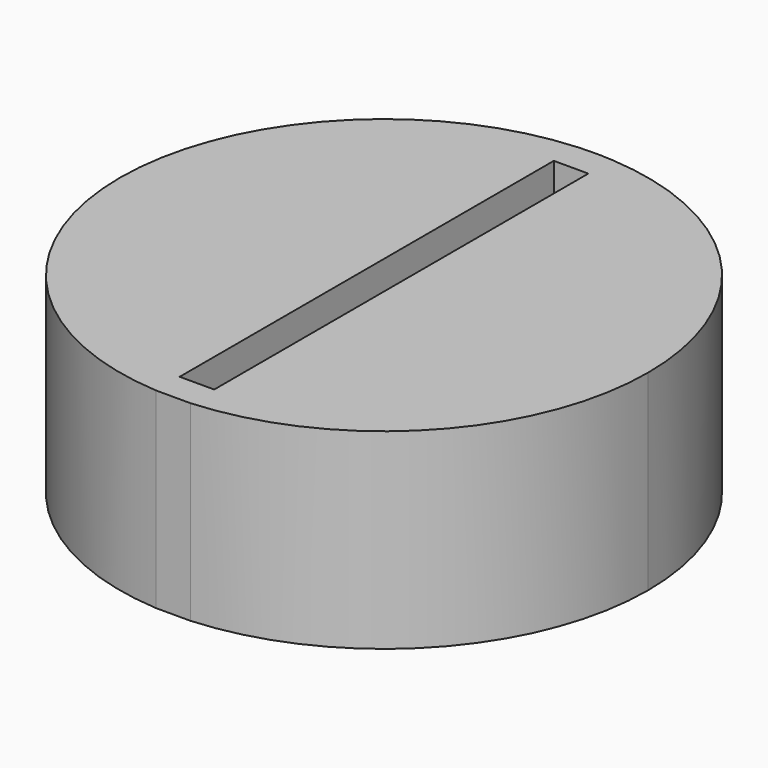
from build123d import *

# Parameters (mm, degrees)
F0_W     = 4.574834
F0_H     = 3.927453
F1_DEPTH = 25.4


with BuildPart() as f1:
    # F0 (on Top) → F1 (new body)
    with BuildSketch(Plane.XY):
        with BuildLine():
            Line((-2.287417, 30.996243), (-2.287417, 34.923696))
            ThreePointArc((-2.287417, 34.923696), (-34.998526, 0), (-2.287417, -34.923696))
            Line((-2.287417, -34.923696), (-2.287417, -30.996243))
            Line((-2.287417, -30.996243), (-2.287417, 30.996243))
        make_face()
        with BuildLine():
            ThreePointArc((2.287417, -34.923696), (25.54362, -23.925307), (34.998526, 0))
            ThreePointArc((34.998526, 0), (25.54362, 23.925307), (2.287417, 34.923696))
            Line((2.287417, 34.923696), (2.287417, 30.996243))
            Line((2.287417, 30.996243), (2.287417, -30.996243))
            Line((2.287417, -30.996243), (2.287417, -34.923696))
        make_face()
        with BuildLine():
            Line((2.287417, 30.996243), (2.287417, 34.923696))
            ThreePointArc((2.287417, 34.923696), (0, 34.998526), (-2.287417, 34.923696))
            Line((-2.287417, 34.923696), (-2.287417, 30.996243))
            Line((-2.287417, 30.996243), (2.287417, 30.996243))
        make_face()
        with Locations((0, -32.959969)):
            Rectangle(F0_W, F0_H)
    extrude(amount=F1_DEPTH)


solid = f1.part
